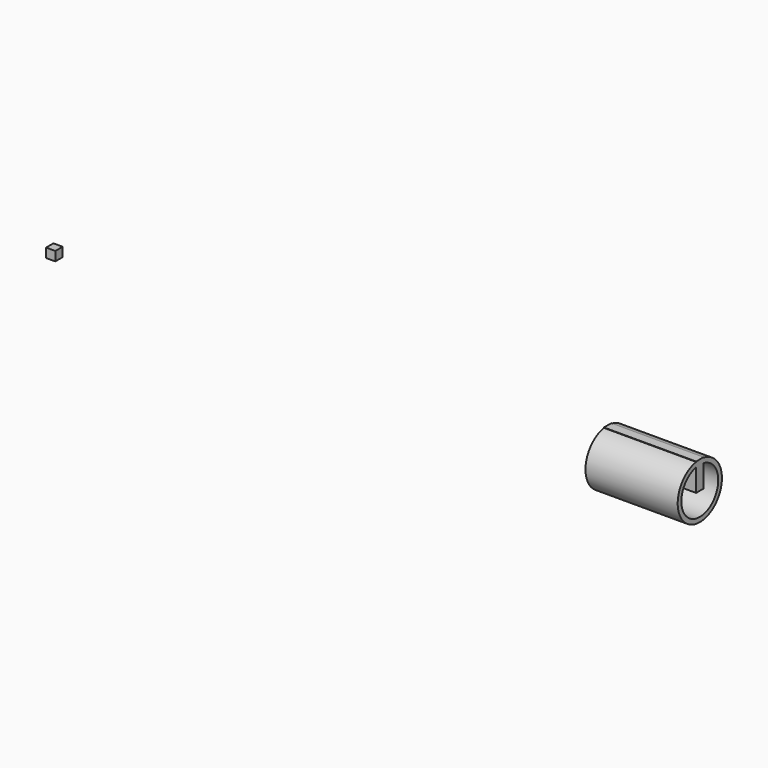
from build123d import *

# Parameters (mm, degrees)
F0_W     = 100
F0_H     = 5
F0_H_2   = 25
F2_DEPTH = 5


with BuildPart() as f1:
    # F0 (on Front) → F1 (revolve)
    with BuildSketch(Plane.XZ):
        with Locations((650, 27.5)):
            Rectangle(F0_W, F0_H)
    revolve(axis=Axis((650, 0, 0), (1, 0, 0)))

    # F0 (on Front) → F2 (join, symmetric)
    with BuildSketch(Plane.XZ):
        with Locations((650, 12.5)):
            Rectangle(F0_W, F0_H_2)
        Polygon((5, -5), (5, 0), (5, 5), (-5, 5), (-5, -5), align=None)
        with Locations((650, 27.5)):
            Rectangle(F0_W, F0_H)
    extrude(amount=F2_DEPTH, both=True)


solid = f1.part
